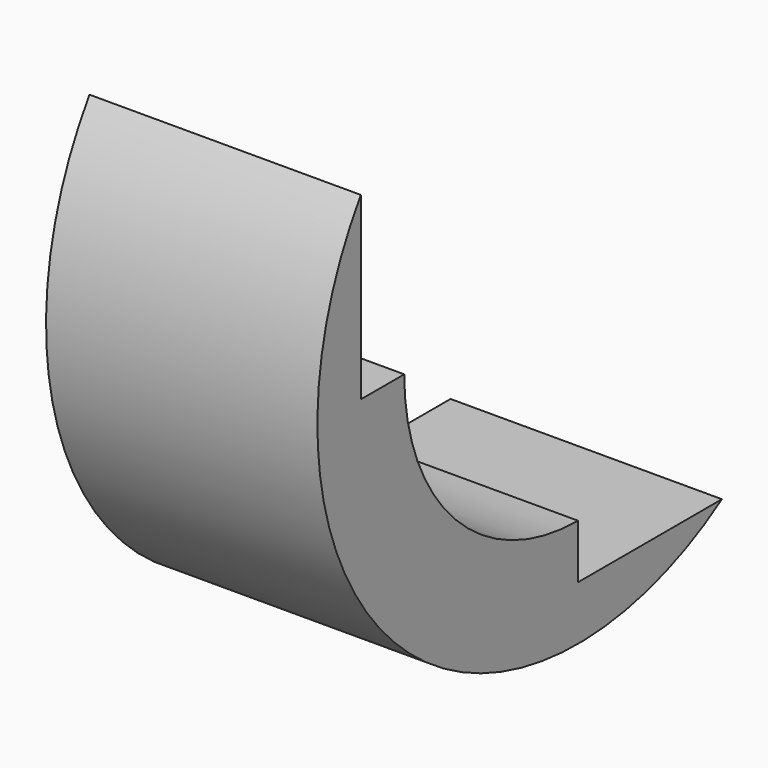
from build123d import *

# Parameters (mm, degrees)
BOX032_W      = 5
BOX032_H      = 10
BOX032_DEPTH  = 8
BOX031_W      = 5
BOX031_H      = 8
BOX031_DEPTH  = 10
TUBE013_R     = 6
TUBE013_R_2   = 4
TUBE013_DEPTH = 5


with BuildPart() as cube032:
    # Box032 → Box032 (new body)
    with BuildSketch(Plane(origin=(0, -2, 3), x_dir=(1, 0, 0), z_dir=(0, 0, 1))):
        with Locations((2.5, 5)):
            Rectangle(BOX032_W, BOX032_H)
    extrude(amount=BOX032_DEPTH)


with BuildPart() as cube031:
    # Box031 → Box031 (new body)
    with BuildSketch(Plane(origin=(0, 3, -2), x_dir=(1, 0, 0), z_dir=(0, 0, 1))):
        with Locations((2.5, 4)):
            Rectangle(BOX031_W, BOX031_H)
    extrude(amount=BOX031_DEPTH)


with BuildPart() as cut036:
    # Tube013 → Tube013 (new body)
    with BuildSketch(Plane(origin=(0, 3, 3), x_dir=(0, 0, -1), z_dir=(1, 0, 0))):
        Circle(TUBE013_R)
        Circle(TUBE013_R_2, mode=Mode.SUBTRACT)
    extrude(amount=TUBE013_DEPTH)

    # Cut035: cut Cube031
    add(cube031.part, mode=Mode.SUBTRACT)

    # Cut036: cut Cube032
    add(cube032.part, mode=Mode.SUBTRACT)


solid = cut036.part
